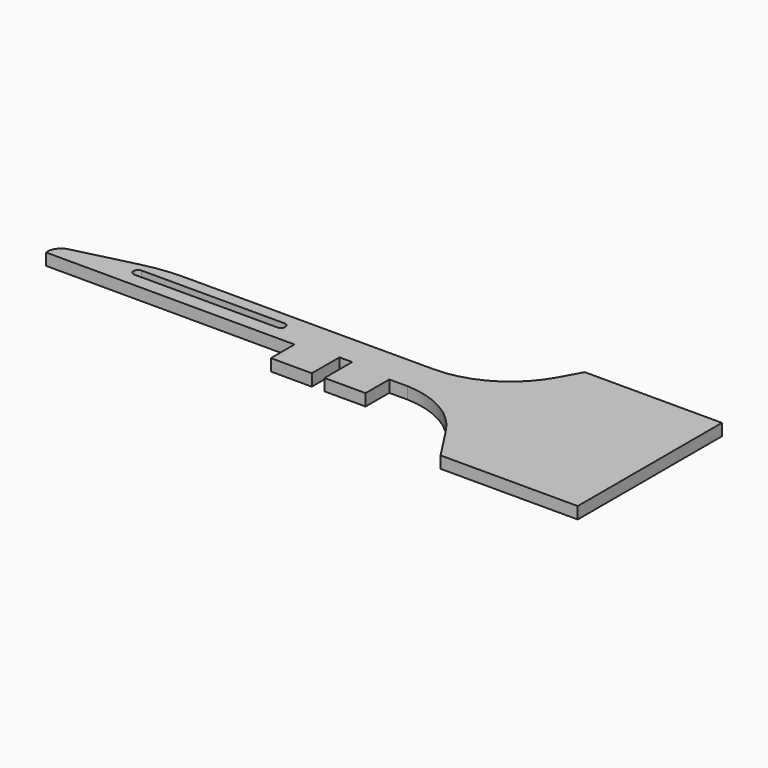
from build123d import *

# Parameters (mm, degrees)
PAD_DEPTH = 2


with BuildPart() as part:
    # CopySketch004 → Pad (new body, symmetric)
    with BuildSketch(Plane.XY):
        with BuildLine():
            Line((-96.515385, 5.238812), (-76.217438, 10.233695))
            ThreePointArc((-62.72, 11.87), (-69.518131, 11.459432), (-76.217438, 10.233695))
            Line((-62.72, 11.87), (-42.55212, 11.87))
            Line((-42.55212, 11.87), (21.447979, 11.87))
            ThreePointArc((21.447979, 11.87), (37.950708, 16.369447), (49.885903, 28.622457))
            Line((49.885903, 28.622457), (53.673439, 35.456396))
            Line((53.673439, 35.456396), (100, 35.456396))
            Line((100, 35.456396), (100, 0))
            Line((100, -25.422476), (100, 0))
            Line((53.673439, -25.422476), (100, -25.422476))
            Line((45.758618, -13.259565), (53.673439, -25.422476))
            ThreePointArc((45.758618, -13.259565), (35.575672, -3.722807), (22.130121, 0))
            Line((16, 0), (22.130121, 0))
            Line((16, -10), (16, 0))
            Line((2.15, -10), (16, -10))
            Line((2.15, 1.647389), (2.15, -10))
            Line((-2.15, 1.647389), (2.15, 1.647389))
            Line((-2.15, -10), (-2.15, 1.647389))
            Line((-16, -10), (-2.15, -10))
            Line((-16, 0), (-16, -10))
            Line((-16, 0), (-100, 0.10272))
            ThreePointArc((-96.515385, 5.238812), (-99.243994, 3.339928), (-100, 0.10272))
        make_face()
        with BuildLine():
            ThreePointArc((-73.8787, 7.775189), (-75.3887, 6.265189), (-73.8787, 4.755189))
            Line((-73.8787, 4.755189), (-25.624771, 4.755189))
            ThreePointArc((-25.624771, 4.755189), (-24.114771, 6.265189), (-25.624771, 7.775189))
            Line((-73.8787, 7.775189), (-25.624771, 7.775189))
        make_face(mode=Mode.SUBTRACT)
    extrude(amount=PAD_DEPTH, both=True)


solid = part.part
